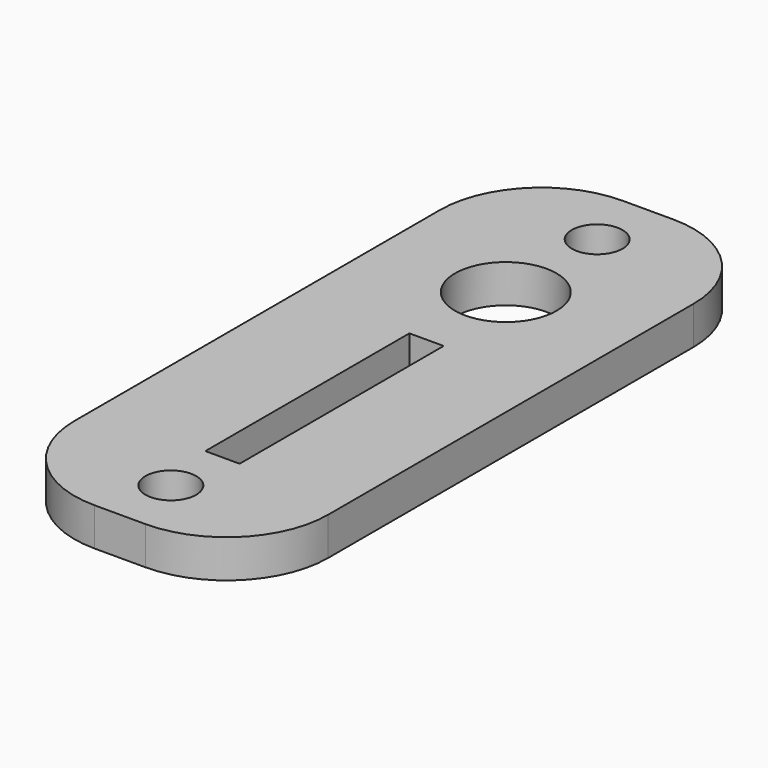
from build123d import *

# Parameters (mm, degrees)
CYLINDER370_R     = 2
CYLINDER370_DEPTH = 65
CYLINDER371_R     = 2
CYLINDER371_DEPTH = 65
CYLINDER368_R     = 4
CYLINDER368_DEPTH = 5
BOX464_W          = 2.7
BOX464_H          = 20.1
BOX464_DEPTH      = 5
BOX461_W          = 20
BOX461_H          = 52
BOX461_DEPTH      = 3
FILLET015_R       = 8


with BuildPart() as cylinder370:
    # Cylinder370 → Cylinder370 (new body)
    with BuildSketch(Plane(origin=(-90, -103, -10), x_dir=(1, 0, 0), z_dir=(0, 0, 1))):
        Circle(CYLINDER370_R)
    extrude(amount=CYLINDER370_DEPTH)


with BuildPart() as fusion368:
    # Cylinder371 → Cylinder371 (new body)
    with BuildSketch(Plane(origin=(-90, -61, -10), x_dir=(1, 0, 0), z_dir=(0, 0, 1))):
        Circle(CYLINDER371_R)
    extrude(amount=CYLINDER371_DEPTH)

    # Fusion368: union Cylinder370
    add(cylinder370.part)


with BuildPart() as fusion368_1:
    # Fusion368 placement: moved
    add(fusion368.part.moved(Location((-2, 0, 0))))


with BuildPart() as cylinder368:
    # Cylinder368 → Cylinder368 (new body)
    with BuildSketch(Plane(origin=(-92, -70, 39), x_dir=(1, 0, 0), z_dir=(0, 0, 1))):
        Circle(CYLINDER368_R)
    extrude(amount=CYLINDER368_DEPTH)


with BuildPart() as box464:
    # Box464 → Box464 (new body)
    with BuildSketch(Plane(origin=(-93.2, -98.1, 39), x_dir=(1, 0, 0), z_dir=(0, 0, 1))):
        with Locations((1.35, 10.05)):
            Rectangle(BOX464_W, BOX464_H)
    extrude(amount=BOX464_DEPTH)


with BuildPart() as cut401:
    # Box461 → Box461 (new body)
    with BuildSketch(Plane(origin=(-102, -108, 40.1), x_dir=(1, 0, 0), z_dir=(0, 0, 1))):
        with Locations((10, 26)):
            Rectangle(BOX461_W, BOX461_H)
    extrude(amount=BOX461_DEPTH)

    # Cut398: cut Box464
    add(box464.part, mode=Mode.SUBTRACT)

    # Fillet015
    fillet015_edges = [cut401.edges().sort_by_distance(p)[0] for p in [
        (-102, -108, 41.6),
        (-102, -56, 41.6),
        (-82, -108, 41.6),
        (-82, -56, 41.6),
    ]]
    fillet(fillet015_edges, radius=FILLET015_R)

    # Cut399: cut Cylinder368
    add(cylinder368.part, mode=Mode.SUBTRACT)

    # Cut401: cut Fusion368
    add(fusion368_1.part, mode=Mode.SUBTRACT)


solid = cut401.part
